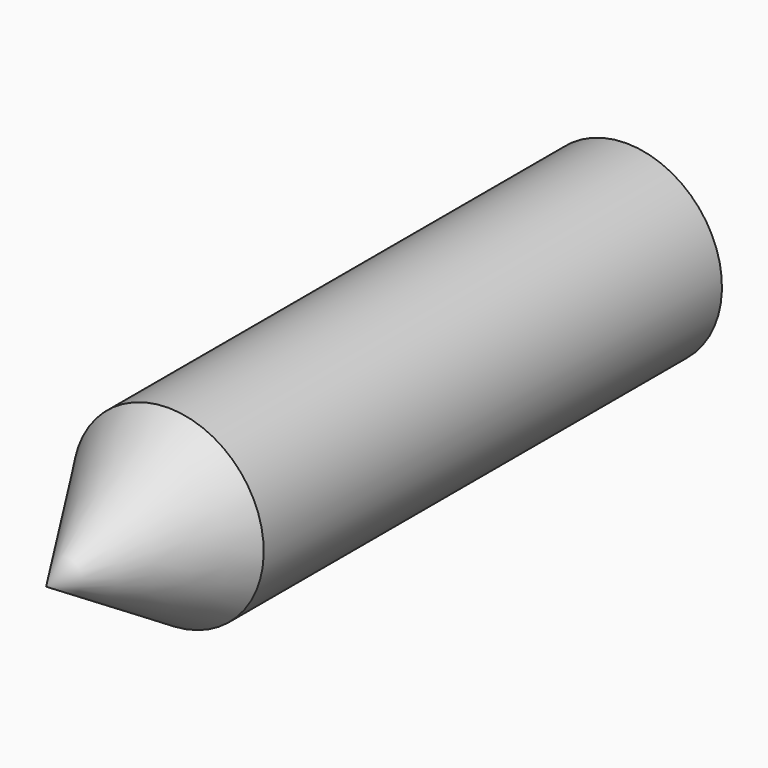
from build123d import *

# Parameters (mm, degrees)
F0_W = 38.1
F0_H = 0.254


with BuildPart() as f1:
    # F0 (on Right) → F1 (revolve)
    with BuildSketch(Plane.YZ):
        Polygon((-9.906, 0), (0, 6.096), (0, 6.35), (-10.16, 0), align=None)
        with Locations((19.05, 6.223)):
            Rectangle(F0_W, F0_H)
    revolve(axis=Axis((0, 19.05, 0), (0, 1, 0)))


solid = f1.part
